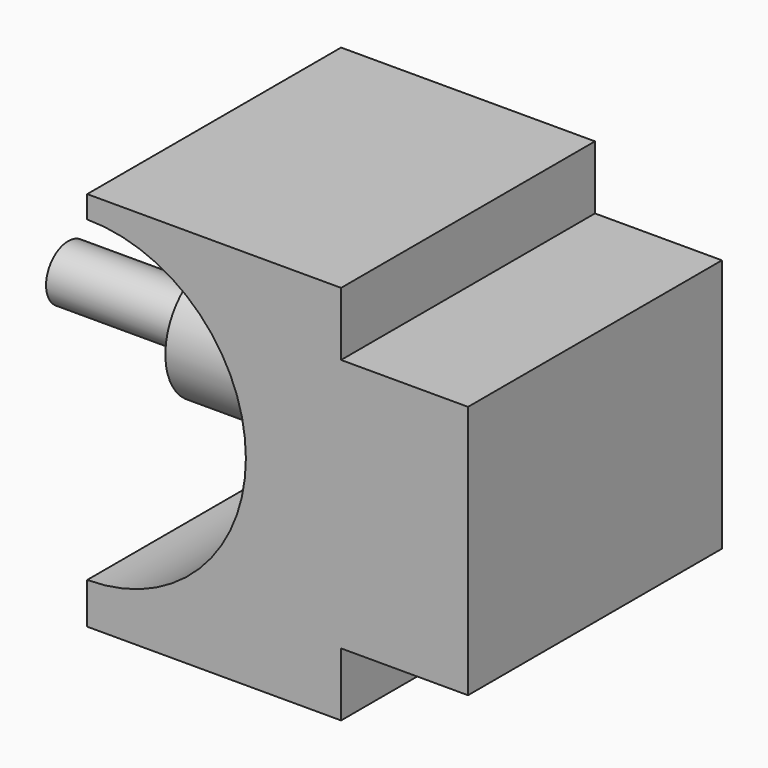
from build123d import *

# Parameters (mm, degrees)
F1_DEPTH = 63.5
F2_R     = 24.4115083372
F3_DEPTH = 151.13
F4_R     = 11.0635092774
F5_DEPTH = 58.42


with BuildPart() as f1:
    # F0 (on Front) → F1 (new body, symmetric)
    with BuildSketch(Plane.XZ):
        with BuildLine():
            Line((0, -63.5), (0, -79.9685076945))
            Line((0, -79.9685076945), (101.6, -79.9685076945))
            Line((101.6, -79.9685076945), (101.6, -54.5685076945))
            Line((101.6, -54.5685076945), (152.4, -54.5685076945))
            Line((152.4, -54.5685076945), (152.4, 47.0314923055))
            Line((152.4, 47.0314923055), (101.6, 47.0314923055))
            Line((101.6, 47.0314923055), (101.6, 72.4314923055))
            Line((101.6, 72.4314923055), (0, 72.4314923055))
            Line((0, 72.4314923055), (0, 63.5))
            ThreePointArc((0, 63.5), (63.5, 0), (0, -63.5))
        make_face()
    extrude(amount=F1_DEPTH, both=True)


with BuildPart() as f3:
    # F2 (on Right) → F3 (new body)
    with BuildSketch(Plane.YZ):
        Circle(F2_R)
    extrude(amount=F3_DEPTH)

    # F4 (on Right) → F5 (join)
    with BuildSketch(Plane.YZ):
        Circle(F4_R)
    extrude(amount=-F5_DEPTH)


solid = Compound([f1.part, f3.part])
